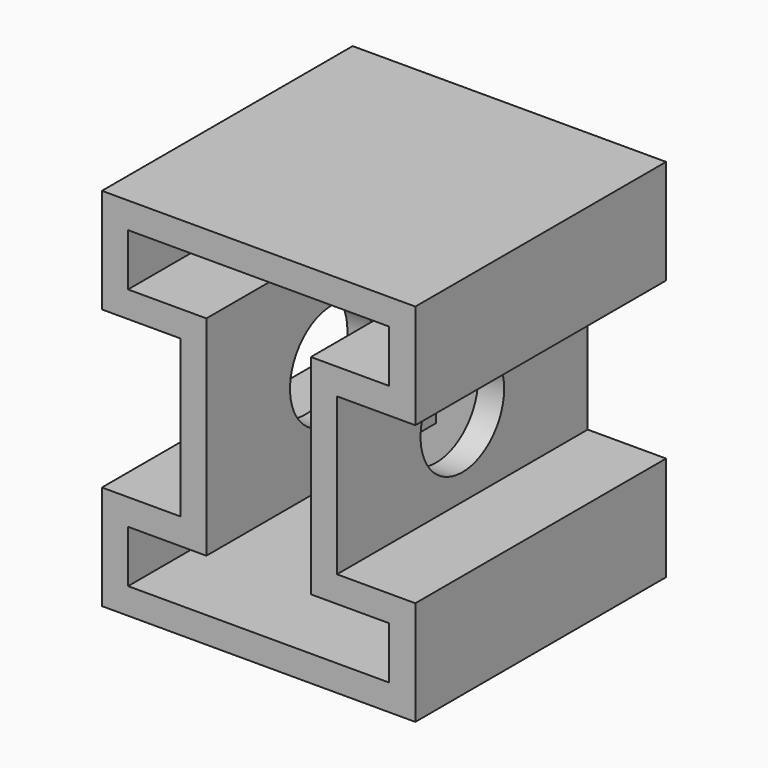
from build123d import *

# Parameters (mm, degrees)
F1_DEPTH = 76.2
F2_T     = -6.35
F3_R     = 12.7
F4_DEPTH = 57.151


with BuildPart() as f1:
    # F0 (on Front) → F1 (new body)
    with BuildSketch(Plane.XZ):
        Polygon((-38.3005267888, -14.7052646339), (-38.3005267888, -40.1052646339), (37.8994732112, -40.1052646339), (37.8994732112, -14.7052646339), (18.8494732112, -14.7052646339), (18.8494732112, 23.3947353661), (37.8994732112, 23.3947353661), (37.8994732112, 48.7947353661), (-38.3005267888, 48.7947353661), (-38.3005267888, 23.3947353661), (-19.2505267888, 23.3947353661), (-19.2505267888, -14.7052646339), align=None)
    extrude(amount=F1_DEPTH)

    # F2
    f2_openings = [f1.faces().sort_by_distance(p)[0] for p in [
        (-0.200527, -76.2, 4.344735),
    ]]
    offset(amount=F2_T, openings=f2_openings, kind=Kind.INTERSECTION)

    # F3 (on face) → F4 (cut, through all)
    with BuildSketch(Plane.YZ.offset(18.8494732112)):
        with Locations((-38.1, 4.3447353661)):
            Circle(F3_R)
    extrude(amount=-F4_DEPTH, mode=Mode.SUBTRACT)


solid = f1.part
